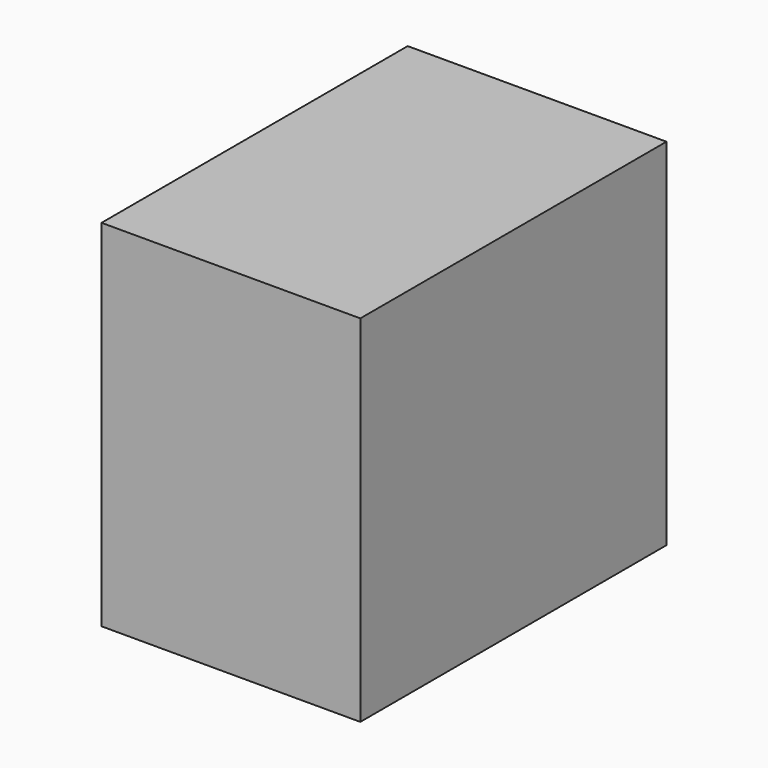
from build123d import *

# Parameters (mm, degrees)
SKETCH_W  = 21.853518
SKETCH_H  = 32.316205
PAD_DEPTH = 30


with BuildPart() as part:
    # Sketch → Pad (new body)
    with BuildSketch(Plane.XY):
        with Locations((0.801574, 0.189845)):
            Rectangle(SKETCH_W, SKETCH_H)
    extrude(amount=PAD_DEPTH)


solid = part.part
